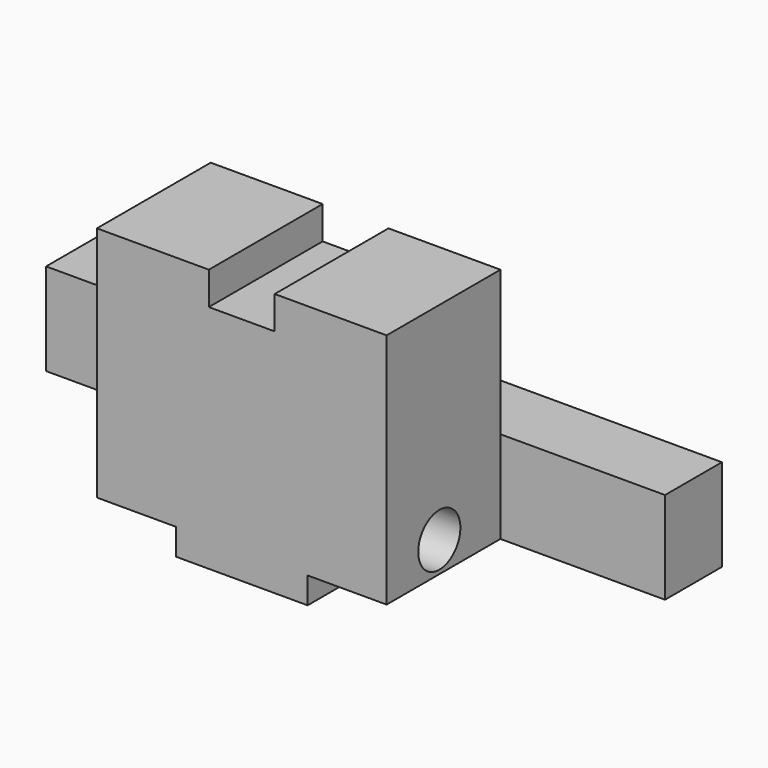
from build123d import *

# Parameters (mm, degrees)
F0_W     = 12.5
F0_H     = 5.4
F1_DEPTH = 18
F2_R     = 2
F3_DEPTH = 34.501
F4_W     = 5
F4_H     = 16.2
F5_DEPTH = 2
F6_W     = 5.4
F6_H     = 11
F7_DEPTH = 47.001
F9_DEPTH = 16.201


with BuildPart() as f1:
    # F0 (on Top) → F1 (new body)
    with BuildSketch(Plane.XY):
        Polygon((11, 0), (0, 0), (-11, 0), (-11, -5.4), (-11, -16.2), (0, -16.2), (11, -16.2), (11, -5.4), align=None)
        with Locations((17.25, -2.7)):
            Rectangle(F0_W, F0_H)
        with Locations((-17.25, -2.7)):
            Rectangle(F0_W, F0_H)
    extrude(amount=F1_DEPTH)

    # F2 (on face) → F3 (cut, through all)
    with BuildSketch(Plane.YZ.offset(11)):
        with Locations((-11.2, 2.3)):
            Circle(F2_R)
    extrude(amount=-F3_DEPTH, mode=Mode.SUBTRACT)

    # F4 (on face) → F5 (join)
    with BuildSketch(Plane(origin=(0, 0, 0), x_dir=(1, 0, 0), z_dir=(0, 0, -1))):
        with Locations((2.5, 8.1)):
            Rectangle(F4_W, F4_H)
        with Locations((-2.5, 8.1)):
            Rectangle(F4_W, F4_H)
    extrude(amount=F5_DEPTH)

    # F6 (on face) → F7 (cut, through all)
    with BuildSketch(Plane.YZ.offset(23.5)):
        with Locations((-2.7, 12.5)):
            Rectangle(F6_W, F6_H)
    extrude(amount=-F7_DEPTH, mode=Mode.SUBTRACT)

    # F8 (on face) → F9 (cut, through all)
    with BuildSketch(Plane.XZ.offset(16.2)):
        Polygon((2.5, 18), (0, 18), (-2.5, 18), (-2.5, 15.5), (2.5, 15.5), align=None)
    extrude(amount=-F9_DEPTH, mode=Mode.SUBTRACT)


solid = f1.part
